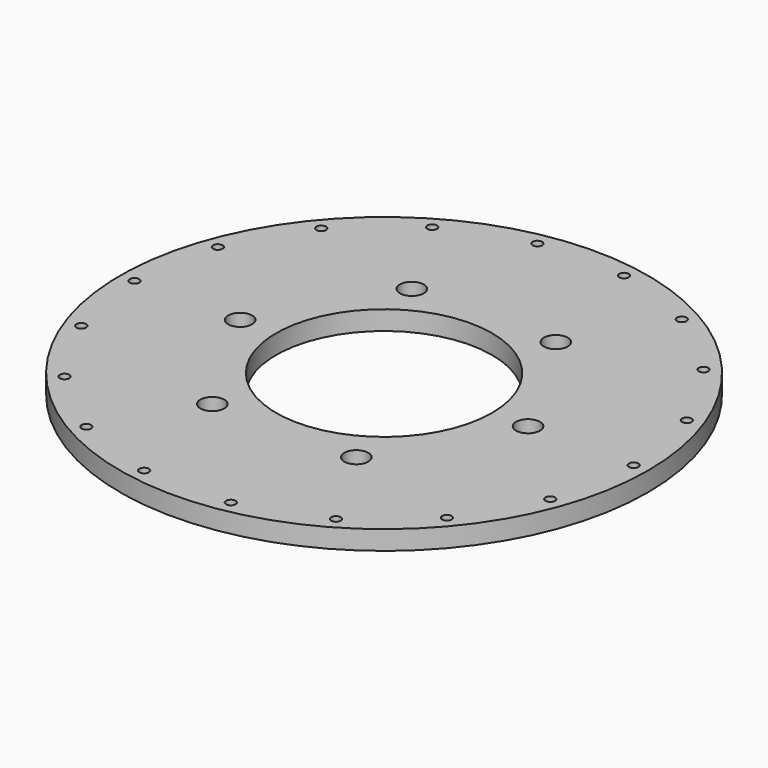
from build123d import *

# Parameters (mm, degrees)
F0_R     = 55
F0_R_2   = 1
F0_R_3   = 2.5
F0_R_4   = 22.5
F1_DEPTH = 4


with BuildPart() as f1:
    # F0 (on Top) → F1 (new body)
    with BuildSketch(Plane.XY):
        Circle(F0_R)
        with Locations((-39.834311, -33.424956)):
            Circle(F0_R_2, mode=Mode.SUBTRACT)
        with Locations((-26, -45.033321)):
            Circle(F0_R_2, mode=Mode.SUBTRACT)
        with Locations((-9.029705, -51.210003)):
            Circle(F0_R_2, mode=Mode.SUBTRACT)
        with Locations((-48.864016, -17.785047)):
            Circle(F0_R_2, mode=Mode.SUBTRACT)
        with Locations((-15, -25.980762)):
            Circle(F0_R_3, mode=Mode.SUBTRACT)
        with Locations((9.029705, -51.210003)):
            Circle(F0_R_2, mode=Mode.SUBTRACT)
        with Locations((26, -45.033321)):
            Circle(F0_R_2, mode=Mode.SUBTRACT)
        with Locations((39.834311, -33.424956)):
            Circle(F0_R_2, mode=Mode.SUBTRACT)
        with Locations((15, -25.980762)):
            Circle(F0_R_3, mode=Mode.SUBTRACT)
        with Locations((48.864016, -17.785047)):
            Circle(F0_R_2, mode=Mode.SUBTRACT)
        with Locations((-52, 0)):
            Circle(F0_R_2, mode=Mode.SUBTRACT)
        with Locations((-30, 0)):
            Circle(F0_R_3, mode=Mode.SUBTRACT)
        with Locations((-48.864016, 17.785047)):
            Circle(F0_R_2, mode=Mode.SUBTRACT)
        with Locations((-15, 25.980762)):
            Circle(F0_R_3, mode=Mode.SUBTRACT)
        with Locations((-39.834311, 33.424956)):
            Circle(F0_R_2, mode=Mode.SUBTRACT)
        with Locations((-26, 45.033321)):
            Circle(F0_R_2, mode=Mode.SUBTRACT)
        with Locations((-9.029705, 51.210003)):
            Circle(F0_R_2, mode=Mode.SUBTRACT)
        Circle(F0_R_4, mode=Mode.SUBTRACT)
        with Locations((15, 25.980762)):
            Circle(F0_R_3, mode=Mode.SUBTRACT)
        with BuildLine():
            ThreePointArc((27.5, 0), (30, 2.5), (32.5, 0))
            ThreePointArc((32.5, 0), (30, -2.5), (27.5, 0))
        make_face(mode=Mode.SUBTRACT)
        with BuildLine():
            ThreePointArc((51, 0), (52, 1), (53, 0))
            ThreePointArc((53, 0), (52, -1), (51, 0))
        make_face(mode=Mode.SUBTRACT)
        with Locations((48.864016, 17.785047)):
            Circle(F0_R_2, mode=Mode.SUBTRACT)
        with Locations((9.029705, 51.210003)):
            Circle(F0_R_2, mode=Mode.SUBTRACT)
        with Locations((26, 45.033321)):
            Circle(F0_R_2, mode=Mode.SUBTRACT)
        with Locations((39.834311, 33.424956)):
            Circle(F0_R_2, mode=Mode.SUBTRACT)
    extrude(amount=F1_DEPTH)


solid = f1.part
